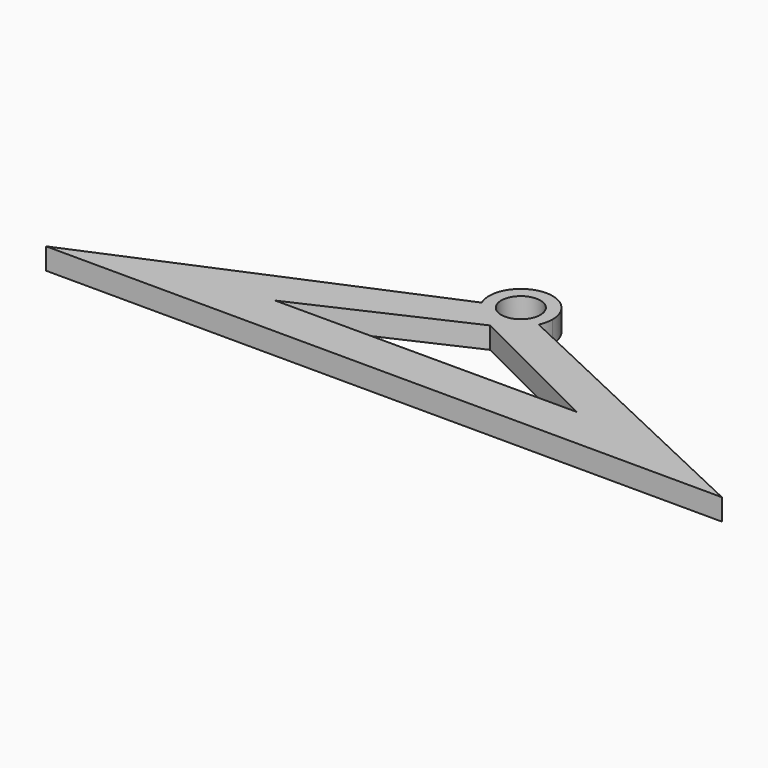
from build123d import *

# Parameters (mm, degrees)
F1_DEPTH = 3.175


with BuildPart() as f1:
    # F0 (on Top) → F1 (new body)
    with BuildSketch(Plane.XY):
        with BuildLine():
            Line((-4.3201246383, 32.8756247673), (-52.3177409886, 12.4764454789))
            Line((-52.3177409886, 12.4764454789), (47.6822590114, 12.229387171))
            Line((47.6822590114, 12.229387171), (4.2458180338, 32.7097809168))
            ThreePointArc((4.2458180338, 32.7097809168), (-0.0908648092, 30.0184685951), (-4.3201246383, 32.8756247673))
        make_face()
        Polygon((21.2470163402, 18.4058448669), (-23.2234828029, 18.4058448669), (0, 29.0293539702), align=None, mode=Mode.SUBTRACT)
        with BuildLine():
            ThreePointArc((4.6941059825, 34.7116950504), (-0.9368852825, 39.3113555751), (-4.3201246383, 32.8756247673))
            Line((-4.3201246383, 32.8756247673), (-2.6613575829, 33.5806074129))
            ThreePointArc((-2.6613575829, 33.5806074129), (-0.5771562072, 37.5452571444), (2.8917440114, 34.7116950504))
            ThreePointArc((2.8917440114, 34.7116950504), (2.8218590383, 34.0797971192), (2.6155819487, 33.478441428))
            Line((2.6155819487, 33.478441428), (4.2458180338, 32.7097809168))
            ThreePointArc((4.2458180338, 32.7097809168), (4.5806632057, 33.6859487023), (4.6941059825, 34.7116950504))
        make_face()
        with BuildLine():
            Line((-2.6613575829, 33.5806074129), (-4.3201246383, 32.8756247673))
            ThreePointArc((-4.3201246383, 32.8756247673), (-0.0908648092, 30.0184685951), (4.2458180338, 32.7097809168))
            Line((4.2458180338, 32.7097809168), (2.6155819487, 33.478441428))
            ThreePointArc((2.6155819487, 33.478441428), (-0.0559761047, 31.8204928605), (-2.6613575829, 33.5806074129))
        make_face()
    extrude(amount=F1_DEPTH)


solid = f1.part
